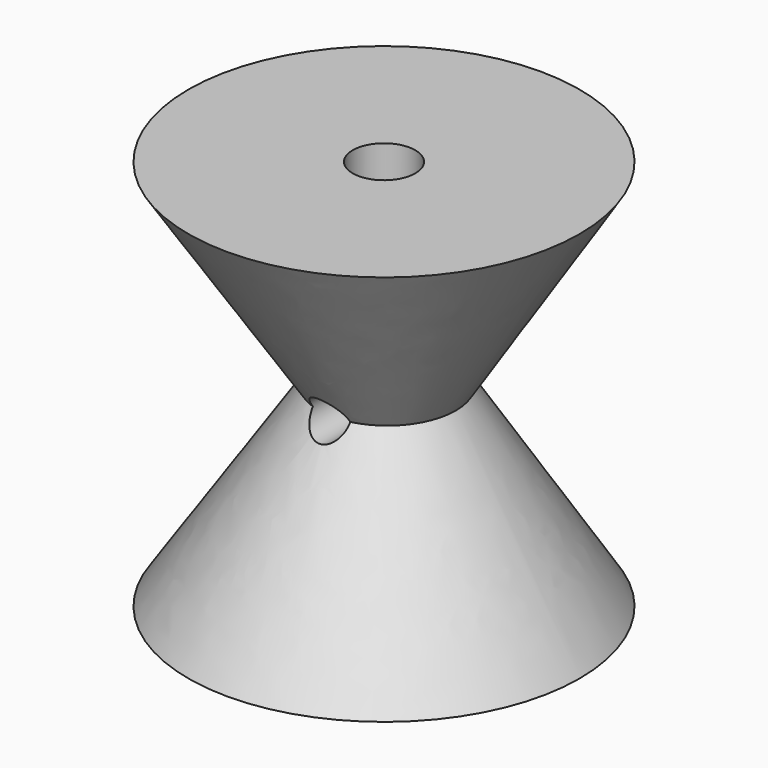
from build123d import *

# Parameters (mm, degrees)
F0_R     = 37.5
F2_R     = 13.125
F5_R     = 6
F6_DEPTH = 75.001
F7_R     = 3.75
F8_DEPTH = 37.501
F9_DEPTH = 37.501


with BuildPart() as f3:
    # F0 (on Top) → F3 section 0
    with BuildSketch(Plane.XY):
        Circle(F0_R)
    # F2 (on offset) → F3 section 1
    with BuildSketch(Plane.XY.offset(37.5)):
        with Locations((0.643553, 0)):
            Circle(F2_R)
    loft()

    # F4: F3 across plane


with BuildPart() as f3_1:
    add(f3.part)
    add(f3.part.mirror(Plane.XY.offset(37.5)))

    # F5 (on face) → F6 (cut, through all)
    with BuildSketch(Plane.XY.offset(75)):
        Circle(F5_R)
    extrude(amount=-F6_DEPTH, mode=Mode.SUBTRACT)

    # F7 (on Front) → F8 (cut, through all)
    with BuildSketch(Plane.XZ):
        with Locations((0, 37.5)):
            Circle(F7_R)
    extrude(amount=-F8_DEPTH, mode=Mode.SUBTRACT)

    # F7 (on Front) → F9 (cut, through all)
    with BuildSketch(Plane.XZ):
        with Locations((0, 37.5)):
            Circle(F7_R)
    extrude(amount=F9_DEPTH, mode=Mode.SUBTRACT)


solid = f3_1.part
